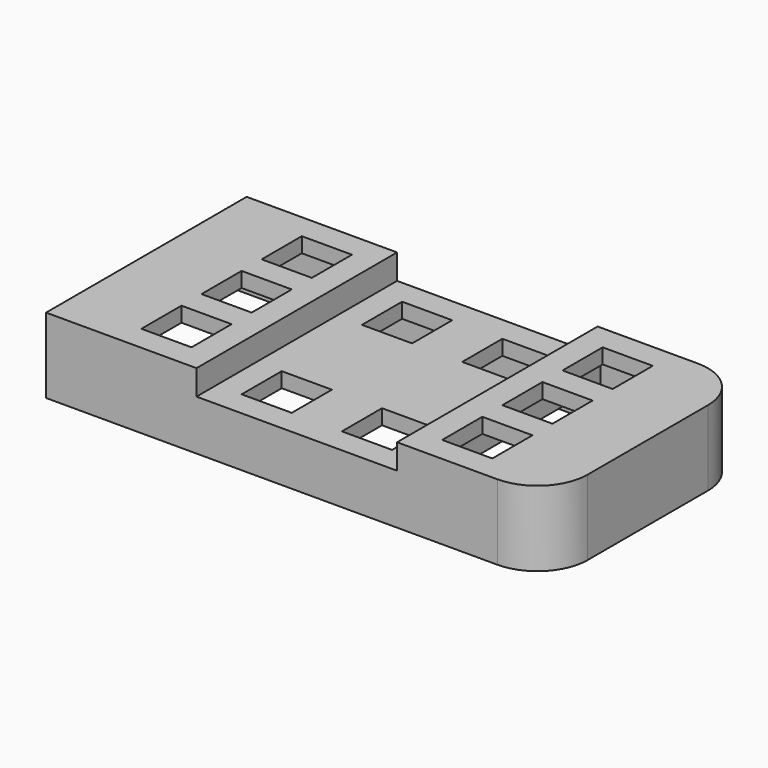
from build123d import *

# Parameters (mm, degrees)
F0_W      = 100
F0_H      = 50
F1_DEPTH  = 15
F2_W      = 10
F2_H      = 10
F3_DEPTH  = 15
F4_R      = 10
F5_R      = 10
F6_W      = 40
F6_H      = 5
F7_DEPTH  = 50
F8_W      = 40
F8_H      = 44
F8_W_2    = 10
F8_H_2    = 10
F8_W_3    = 27
F8_W_4    = 3
F9_DEPTH  = 7
F10_DEPTH = 12


with BuildPart() as f1:
    # F0 (on Top) → F1 (new body)
    with BuildSketch(Plane.XY):
        with Locations((-50, 25)):
            Rectangle(F0_W, F0_H)
    extrude(amount=F1_DEPTH)

    # F2 (on face) → F3 (cut, through all)
    with BuildSketch(Plane.XY.offset(15)):
        with Locations((-20, 40)):
            Rectangle(F2_W, F2_H)
        with Locations((-80, 10)):
            Rectangle(F2_W, F2_H)
        with Locations((-20, 10)):
            Rectangle(F2_W, F2_H)
        with Locations((-20, 25)):
            Rectangle(F2_W, F2_H)
        with Locations((-40, 40)):
            Rectangle(F2_W, F2_H)
        with Locations((-60, 40)):
            Rectangle(F2_W, F2_H)
        with Locations((-60, 10)):
            Rectangle(F2_W, F2_H)
        with Locations((-40, 10)):
            Rectangle(F2_W, F2_H)
        with Locations((-80, 40)):
            Rectangle(F2_W, F2_H)
        with Locations((-80, 25)):
            Rectangle(F2_W, F2_H)
    extrude(amount=-F3_DEPTH, mode=Mode.SUBTRACT)

    # F4
    f4_edges = [f1.edges().sort_by_distance(p)[0] for p in [
        (0, 50, 7.5),
    ]]
    fillet(f4_edges, radius=F4_R)

    # F5
    f5_edges = [f1.edges().sort_by_distance(p)[0] for p in [
        (0, 0, 7.5),
    ]]
    fillet(f5_edges, radius=F5_R)

    # F6 (on face) → F7 (cut, through all)
    with BuildSketch(Plane.XZ):
        with Locations((-50, 12.5)):
            Rectangle(F6_W, F6_H)
    extrude(amount=-F7_DEPTH, mode=Mode.SUBTRACT)

    # F8 (on face) → F9 (cut)
    with BuildSketch(Plane(origin=(0, 0, 0), x_dir=(1, 0, 0), z_dir=(0, 0, -1))):
        with Locations((-50, -25)):
            Rectangle(F8_W, F8_H)
        with Locations((-60, -40)):
            Rectangle(F8_W_2, F8_H_2, mode=Mode.SUBTRACT)
        with Locations((-40, -40)):
            Rectangle(F8_W_2, F8_H_2, mode=Mode.SUBTRACT)
        with Locations((-60, -10)):
            Rectangle(F8_W_2, F8_H_2, mode=Mode.SUBTRACT)
        with Locations((-40, -10)):
            Rectangle(F8_W_2, F8_H_2, mode=Mode.SUBTRACT)
        with Locations((-50, -25)):
            Rectangle(F8_W, F8_H)
        with Locations((-60, -40)):
            Rectangle(F8_W_2, F8_H_2, mode=Mode.SUBTRACT)
        with Locations((-40, -40)):
            Rectangle(F8_W_2, F8_H_2, mode=Mode.SUBTRACT)
        with Locations((-60, -10)):
            Rectangle(F8_W_2, F8_H_2, mode=Mode.SUBTRACT)
        with Locations((-40, -10)):
            Rectangle(F8_W_2, F8_H_2, mode=Mode.SUBTRACT)
        with Locations((-50, -25)):
            Rectangle(F8_W, F8_H)
        with Locations((-60, -40)):
            Rectangle(F8_W_2, F8_H_2, mode=Mode.SUBTRACT)
        with Locations((-40, -40)):
            Rectangle(F8_W_2, F8_H_2, mode=Mode.SUBTRACT)
        with Locations((-60, -10)):
            Rectangle(F8_W_2, F8_H_2, mode=Mode.SUBTRACT)
        with Locations((-40, -10)):
            Rectangle(F8_W_2, F8_H_2, mode=Mode.SUBTRACT)
        with Locations((-50, -25)):
            Rectangle(F8_W, F8_H)
        with Locations((-60, -40)):
            Rectangle(F8_W_2, F8_H_2, mode=Mode.SUBTRACT)
        with Locations((-40, -40)):
            Rectangle(F8_W_2, F8_H_2, mode=Mode.SUBTRACT)
        with Locations((-60, -10)):
            Rectangle(F8_W_2, F8_H_2, mode=Mode.SUBTRACT)
        with Locations((-40, -10)):
            Rectangle(F8_W_2, F8_H_2, mode=Mode.SUBTRACT)
        with Locations((-50, -25)):
            Rectangle(F8_W, F8_H)
        with Locations((-60, -40)):
            Rectangle(F8_W_2, F8_H_2, mode=Mode.SUBTRACT)
        with Locations((-40, -40)):
            Rectangle(F8_W_2, F8_H_2, mode=Mode.SUBTRACT)
        with Locations((-60, -10)):
            Rectangle(F8_W_2, F8_H_2, mode=Mode.SUBTRACT)
        with Locations((-40, -10)):
            Rectangle(F8_W_2, F8_H_2, mode=Mode.SUBTRACT)
        with Locations((-86.5, -25)):
            Rectangle(F8_W_3, F8_H)
        with Locations((-80, -40)):
            Rectangle(F8_W_2, F8_H_2, mode=Mode.SUBTRACT)
        with Locations((-80, -25)):
            Rectangle(F8_W_2, F8_H_2, mode=Mode.SUBTRACT)
        with Locations((-80, -10)):
            Rectangle(F8_W_2, F8_H_2, mode=Mode.SUBTRACT)
        with Locations((-86.5, -25)):
            Rectangle(F8_W_3, F8_H)
        with Locations((-80, -40)):
            Rectangle(F8_W_2, F8_H_2, mode=Mode.SUBTRACT)
        with Locations((-80, -25)):
            Rectangle(F8_W_2, F8_H_2, mode=Mode.SUBTRACT)
        with Locations((-80, -10)):
            Rectangle(F8_W_2, F8_H_2, mode=Mode.SUBTRACT)
        with BuildLine():
            Line((-27, -3), (-27, -47))
            Line((-27, -47), (-10.2426406871, -47))
            ThreePointArc((-10.2426406871, -47), (-5.1213203436, -44.8786796564), (-3, -39.7573593129))
            Line((-3, -39.7573593129), (-3, -10))
            ThreePointArc((-3, -10), (-5.0502525317, -5.0502525317), (-10, -3))
            Line((-10, -3), (-27, -3))
        make_face()
        with Locations((-20, -40)):
            Rectangle(F8_W_2, F8_H_2, mode=Mode.SUBTRACT)
        with Locations((-20, -25)):
            Rectangle(F8_W_2, F8_H_2, mode=Mode.SUBTRACT)
        with Locations((-20, -10)):
            Rectangle(F8_W_2, F8_H_2, mode=Mode.SUBTRACT)
        with BuildLine():
            Line((-27, -3), (-27, -47))
            Line((-27, -47), (-10.2426406871, -47))
            ThreePointArc((-10.2426406871, -47), (-5.1213203436, -44.8786796564), (-3, -39.7573593129))
            Line((-3, -39.7573593129), (-3, -10))
            ThreePointArc((-3, -10), (-5.0502525317, -5.0502525317), (-10, -3))
            Line((-10, -3), (-27, -3))
        make_face()
        with Locations((-20, -40)):
            Rectangle(F8_W_2, F8_H_2, mode=Mode.SUBTRACT)
        with Locations((-20, -25)):
            Rectangle(F8_W_2, F8_H_2, mode=Mode.SUBTRACT)
        with Locations((-20, -10)):
            Rectangle(F8_W_2, F8_H_2, mode=Mode.SUBTRACT)
        with Locations((-28.5, -25)):
            Rectangle(F8_W_4, F8_H)
        with Locations((-71.5, -25)):
            Rectangle(F8_W_4, F8_H)
        with Locations((-20, -40)):
            Rectangle(F8_W_2, F8_H_2)
        with Locations((-80, -25)):
            Rectangle(F8_W_2, F8_H_2)
        with Locations((-80, -10)):
            Rectangle(F8_W_2, F8_H_2)
        with Locations((-20, -25)):
            Rectangle(F8_W_2, F8_H_2)
    extrude(amount=-F9_DEPTH, mode=Mode.SUBTRACT)

    # F8 (on face) → F10 (cut)
    with BuildSketch(Plane(origin=(0, 0, 0), x_dir=(1, 0, 0), z_dir=(0, 0, -1))):
        with Locations((-86.5, -25)):
            Rectangle(F8_W_3, F8_H)
        with Locations((-80, -40)):
            Rectangle(F8_W_2, F8_H_2, mode=Mode.SUBTRACT)
        with Locations((-80, -25)):
            Rectangle(F8_W_2, F8_H_2, mode=Mode.SUBTRACT)
        with Locations((-80, -10)):
            Rectangle(F8_W_2, F8_H_2, mode=Mode.SUBTRACT)
        with BuildLine():
            Line((-27, -3), (-27, -47))
            Line((-27, -47), (-10.2426406871, -47))
            ThreePointArc((-10.2426406871, -47), (-5.1213203436, -44.8786796564), (-3, -39.7573593129))
            Line((-3, -39.7573593129), (-3, -10))
            ThreePointArc((-3, -10), (-5.0502525317, -5.0502525317), (-10, -3))
            Line((-10, -3), (-27, -3))
        make_face()
        with Locations((-20, -40)):
            Rectangle(F8_W_2, F8_H_2, mode=Mode.SUBTRACT)
        with Locations((-20, -25)):
            Rectangle(F8_W_2, F8_H_2, mode=Mode.SUBTRACT)
        with Locations((-20, -10)):
            Rectangle(F8_W_2, F8_H_2, mode=Mode.SUBTRACT)
    extrude(amount=-F10_DEPTH, mode=Mode.SUBTRACT)


solid = f1.part
